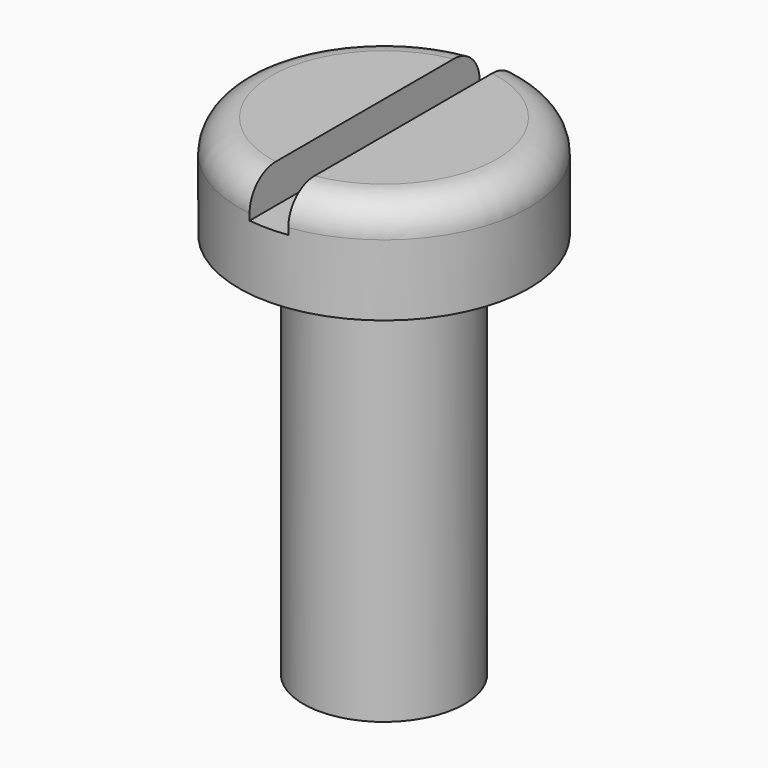
from build123d import *

# Parameters (mm, degrees)
F2_W          = 0.6
F2_H          = 0.6
F3_DEPTH      = 2.251
F3_DEPTH_BACK = 2.251


with BuildPart() as f1:
    # F0 (on Front) → F1 (revolve)
    with BuildSketch(Plane.XZ):
        with BuildLine():
            Line((1.75, 1.6), (0, 1.6))
            Line((0, 1.6), (0, -6))
            Line((0, -6), (1.25, -6))
            Line((1.25, -6), (1.25, 0))
            Line((1.25, 0), (2.25, 0))
            Line((2.25, 0), (2.25, 1.1))
            ThreePointArc((2.25, 1.1), (2.1035533906, 1.4535533906), (1.75, 1.6))
        make_face()
    revolve(axis=Axis((0, 0, 1.6484611327), (0, 0, 1)))

    # F2 (on Front) → F3 (cut, two sides)
    with BuildSketch(Plane.XZ) as f3_sk:
        with Locations((0, 1.3)):
            Rectangle(F2_W, F2_H)
    extrude(amount=-F3_DEPTH, mode=Mode.SUBTRACT)
    extrude(f3_sk.sketch, amount=F3_DEPTH_BACK, mode=Mode.SUBTRACT)


solid = f1.part
